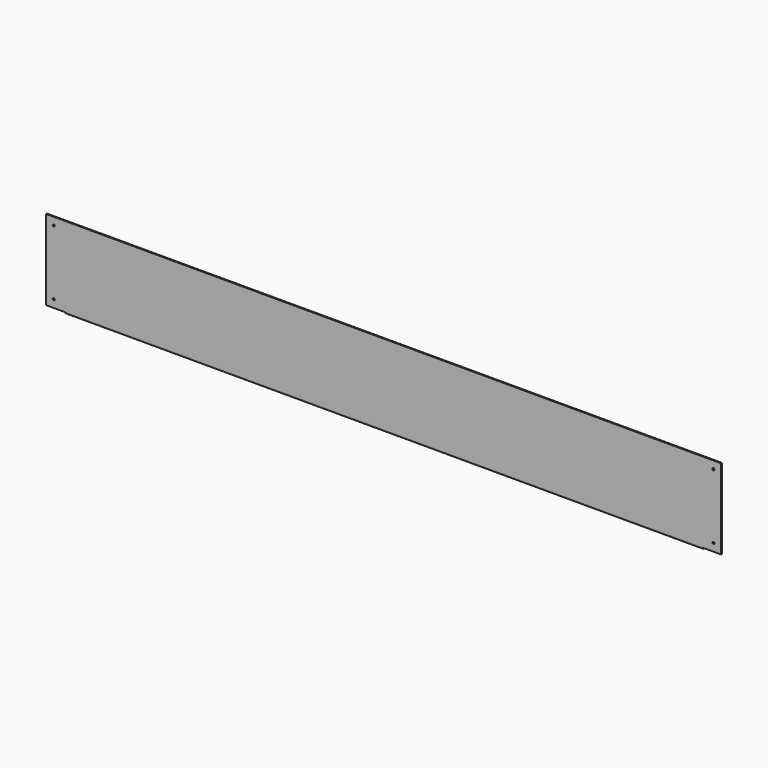
from build123d import *

# Parameters (mm, degrees)
F1_DEPTH = 1247
F2_W     = 2
F2_H     = 157
F3_DEPTH = 36.5
F4_W     = 2
F4_H     = 157
F5_DEPTH = 36.5
F6_R     = 2
F7_DEPTH = 17.182757


with BuildPart() as f1:
    # F0 (on Right) → F1 (new body)
    with BuildSketch(Plane.YZ):
        with BuildLine():
            Line((-0.923239, 122.649228), (-2.923239, 122.649228))
            Line((-2.923239, 122.649228), (-2.923239, -34.350772))
            ThreePointArc((-2.923239, -34.350772), (-1.643968, -36.808228), (1.102821, -37.16985))
            Line((1.102821, -37.16985), (14.258518, -32.381568))
            Line((14.258518, -32.381568), (13.574478, -30.502182))
            Line((13.574478, -30.502182), (0.418781, -35.290464))
            ThreePointArc((0.418781, -35.290464), (-0.496816, -35.169924), (-0.923239, -34.350772))
            Line((-0.923239, -34.350772), (-0.923239, 122.649228))
        make_face()
    extrude(amount=F1_DEPTH)

    # F2 (on face) → F3 (join)
    with BuildSketch(Plane.YZ.offset(1247)):
        with Locations((-1.923239, 44.149228)):
            Rectangle(F2_W, F2_H)
    extrude(amount=F3_DEPTH)

    # F4 (on face) → F5 (join)
    with BuildSketch(Plane(origin=(0, 0, 0), x_dir=(0, -1, 0), z_dir=(-1, 0, 0))):
        with Locations((1.923239, 44.149228)):
            Rectangle(F4_W, F4_H)
    extrude(amount=F5_DEPTH)

    # F6 (on face) → F7 (cut, through all)
    with BuildSketch(Plane.XZ.offset(2.923239)):
        with Locations((-21.5, 107.649228)):
            Circle(F6_R)
        with Locations((-21.5, -19.350772)):
            Circle(F6_R)
        with Locations((1268.5, 107.649228)):
            Circle(F6_R)
        with Locations((1268.5, -19.350772)):
            Circle(F6_R)
    extrude(amount=-F7_DEPTH, mode=Mode.SUBTRACT)


solid = f1.part
